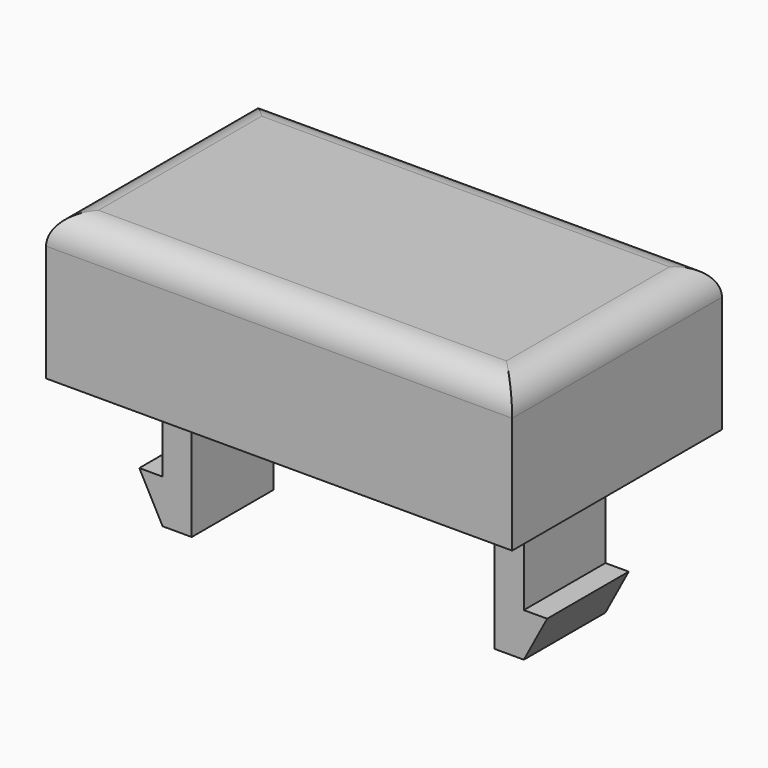
from build123d import *

# Parameters (mm, degrees)
SKETCH036_W     = 16
SKETCH036_H     = 9
PAD021_DEPTH    = 5
SKETCH037_W     = 14.4
SKETCH037_H     = 7.4
POCKET013_DEPTH = 4
SKETCH038_W     = 1
SKETCH038_H     = 3.5
PAD022_DEPTH    = 9
PAD023_DEPTH    = 3.5
SKETCH041_R     = 1
PAD025_DEPTH    = 3.4
FILLET002_R     = 1
FILLET007_R     = 0.7
FILLET011_R     = 0.8


with BuildPart() as part:
    # Sketch036 → Pad021 (new body)
    with BuildSketch(Plane.XY):
        Rectangle(SKETCH036_W, SKETCH036_H)
    extrude(amount=PAD021_DEPTH)

    # Sketch037 (on Face5 of Pad021) → Pocket013 (cut)
    with BuildSketch(Plane(origin=(0, 0, 0), x_dir=(1, 0, 0), z_dir=(0, 0, -1))):
        Rectangle(SKETCH037_W, SKETCH037_H)
    extrude(amount=-POCKET013_DEPTH, mode=Mode.SUBTRACT)

    # Sketch038 (on Face11 of Pocket013) → Pad022 (join)
    with BuildSketch(Plane(origin=(0, 0, 4), x_dir=(1, 0, 0), z_dir=(0, 0, -1))):
        with Locations((-5.7, 0)):
            Rectangle(SKETCH038_W, SKETCH038_H)
        with Locations((5.7, 0)):
            Rectangle(SKETCH038_W, SKETCH038_H)
    extrude(amount=PAD022_DEPTH)

    # Sketch039 (on Face17 of Pad022) → Pad023 (join)
    with BuildSketch(Plane(origin=(0, 1.75, 0), x_dir=(-1, 0, 0), z_dir=(0, 1, 0))):
        Polygon((-6.2, -3.5), (-7, -3.5), (-6.2, -5), align=None)
        Polygon((6.2, -3.5), (7, -3.5), (6.2, -5), align=None)
    extrude(amount=-PAD023_DEPTH)

    # Sketch041 (on Face11 of Pad023) → Pad025 (join)
    with BuildSketch(Plane(origin=(0, 0, 4), x_dir=(1, 0, 0), z_dir=(0, 0, -1))):
        Circle(SKETCH041_R)
    extrude(amount=PAD025_DEPTH)

    # Fillet002
    fillet002_edges = [part.edges().sort_by_distance(p)[0] for p in [
        (0, 4.5, 5),
        (-8, 0, 5),
        (0, -4.5, 5),
        (8, 0, 5),
    ]]
    fillet(fillet002_edges, radius=FILLET002_R)

    # Fillet007
    fillet007_edges = [part.edges().sort_by_distance(p)[0] for p in [
        (-1, 0, 4),
    ]]
    fillet(fillet007_edges, radius=FILLET007_R)

    # Fillet011
    fillet011_edges = [part.edges().sort_by_distance(p)[0] for p in [
        (5.2, 0, 4),
        (5.7, 1.75, 4),
        (6.2, 0, 4),
        (5.7, -1.75, 4),
        (-5.7, -1.75, 4),
        (-6.2, 0, 4),
        (-5.2, 0, 4),
        (-5.7, 1.75, 4),
    ]]
    fillet(fillet011_edges, radius=FILLET011_R)


with BuildPart() as part_1:
    # Body008 placement: moved
    add(part.part.moved(Location((-33, -44, 15))))


with BuildPart() as part_2:
    # Clone002 placement: moved
    add(part_1.part.moved(Location((0, 0, 4))))


with BuildPart() as part_3:
    # Body011 placement: moved
    add(part_2.part.moved(Location((51, 0, -4))))


solid = part_3.part
